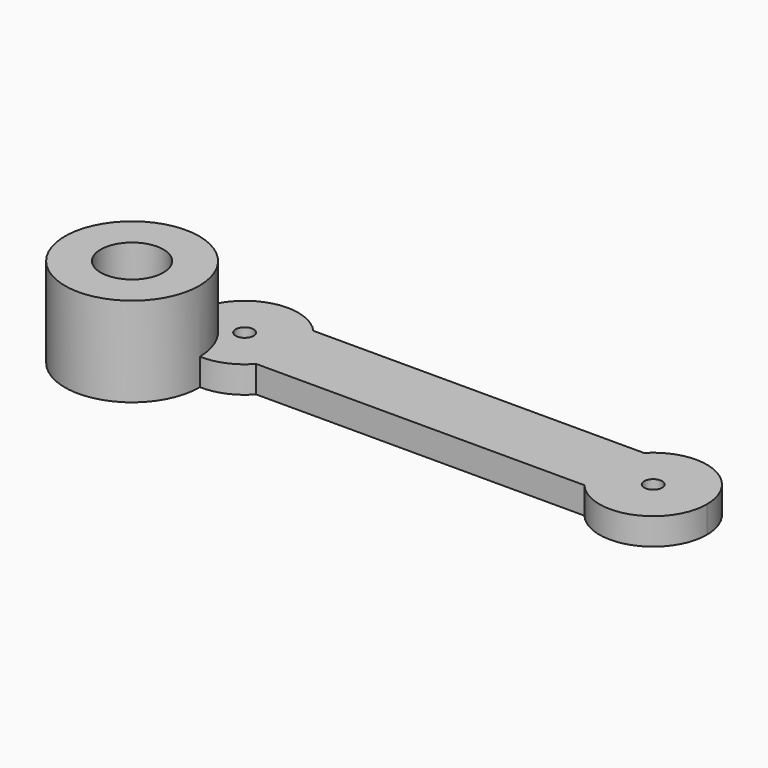
from build123d import *

# Parameters (mm, degrees)
F1_DEPTH = 7.62
F2_R     = 2.54
F3_DEPTH = 25.4
F4_R     = 19.05
F4_R_2   = 8.89
F5_DEPTH = 25.4


with BuildPart() as f1:
    # F0 (on Top) → F1 (new body)
    with BuildSketch(Plane.XY):
        with BuildLine():
            ThreePointArc((-279.9174020173, 43.9496934414), (-263.0302165533, 39.4233371805), (-253.0018394569, 53.7445308008))
            ThreePointArc((-253.0018394569, 53.7445308008), (-262.5723411754, 67.8907101167), (-279.2635703278, 64.2696934414))
            Line((-279.2635703278, 64.2696934414), (-279.2635703278, 43.9496934414))
            Line((-279.2635703278, 43.9496934414), (-279.9174020173, 43.9496934414))
        make_face()
        with BuildLine():
            Line((-279.2635703278, 43.9496934414), (-279.2635703278, 64.2696934414))
            ThreePointArc((-279.2635703278, 64.2696934414), (-283.4739562591, 54.2346509123), (-279.9174020173, 43.9496934414))
            Line((-279.9174020173, 43.9496934414), (-279.2635703278, 43.9496934414))
        make_face()
        with BuildLine():
            ThreePointArc((-279.9174020173, 43.9496934414), (-283.4739562591, 54.2346509123), (-279.2635703278, 64.2696934414))
            Line((-279.2635703278, 64.2696934414), (-373.075891919, 64.2696934414))
            ThreePointArc((-373.075891919, 64.2696934414), (-370.1983304941, 59.5476620895), (-369.1951172447, 54.1096934414))
            ThreePointArc((-369.1951172447, 54.1096934414), (-370.1983304941, 48.6717247932), (-373.075891919, 43.9496934414))
            Line((-373.075891919, 43.9496934414), (-279.9174020173, 43.9496934414))
        make_face()
        with BuildLine():
            ThreePointArc((-369.1951172447, 54.1096934414), (-370.1983304941, 59.5476620895), (-373.075891919, 64.2696934414))
            Line((-373.075891919, 64.2696934414), (-373.2435703278, 64.2696934414))
            Line((-373.2435703278, 64.2696934414), (-373.2435703278, 43.9496934414))
            Line((-373.2435703278, 43.9496934414), (-373.075891919, 43.9496934414))
            ThreePointArc((-373.075891919, 43.9496934414), (-370.1983304941, 48.6717247932), (-369.1951172447, 54.1096934414))
        make_face()
        with BuildLine():
            Line((-373.2435703278, 64.2696934414), (-373.075891919, 64.2696934414))
            ThreePointArc((-373.075891919, 64.2696934414), (-399.6751172447, 54.1096934414), (-373.075891919, 43.9496934414))
            Line((-373.075891919, 43.9496934414), (-373.2435703278, 43.9496934414))
            Line((-373.2435703278, 43.9496934414), (-373.2435703278, 64.2696934414))
        make_face()
    extrude(amount=F1_DEPTH)

    # F2 (on face) → F3 (cut)
    with BuildSketch(Plane.XY.offset(7.62)):
        with Locations((-384.4351172447, 54.1096934414)):
            Circle(F2_R)
        with Locations((-268.2418394569, 53.7445308008)):
            Circle(F2_R)
    extrude(amount=-F3_DEPTH, mode=Mode.SUBTRACT)

    # F4 (on Top) → F5 (join)
    with BuildSketch(Plane.XY):
        with Locations((-404.0130972862, 38.6605933309)):
            Circle(F4_R)
        with Locations((-404.0130972862, 38.6605933309)):
            Circle(F4_R_2, mode=Mode.SUBTRACT)
    extrude(amount=F5_DEPTH)


solid = f1.part
